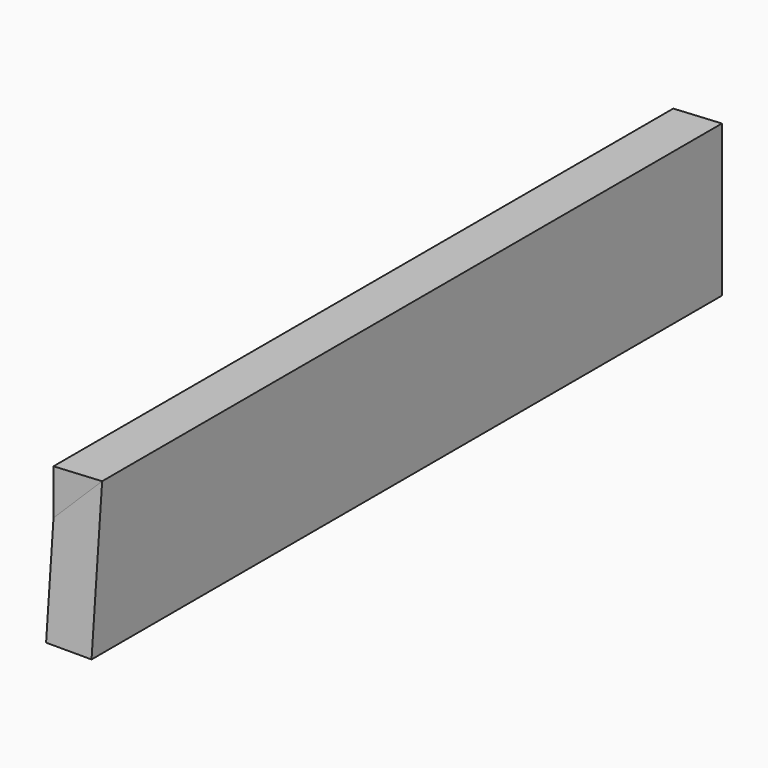
from build123d import *

# Parameters (mm, degrees)
F0_W     = 330.2
F0_H     = 63.5
F1_DEPTH = 19.05
F3_DEPTH = 63.501
F5_DEPTH = 19.051
F7_DEPTH = 63.5


with BuildPart() as f1:
    # F0 (on Right) → F1 (new body)
    with BuildSketch(Plane.YZ):
        with Locations((-165.1, 31.75)):
            Rectangle(F0_W, F0_H)
    extrude(amount=F1_DEPTH)

    # F2 (on face) → F3 (cut, through all)
    with BuildSketch(Plane.XY.offset(63.5)):
        Polygon((0, -1.666659), (19.05, 0), (0, 0), align=None)
    extrude(amount=-F3_DEPTH, mode=Mode.SUBTRACT)

    # F4 (on face) → F5 (cut, through all)
    with BuildSketch(Plane.YZ.offset(19.05)):
        Polygon((-324.64447, 63.5), (-330.2, 63.5), (-330.2, 0), align=None)
    extrude(amount=-F5_DEPTH, mode=Mode.SUBTRACT)

    # F6 (on face) → F7 (join)
    with BuildSketch(Plane.XY.offset(63.5)):
        Polygon((19.05, -324.64447), (0, -324.64447), (0, -326.311129), align=None)
    extrude(amount=-F7_DEPTH)


solid = f1.part
